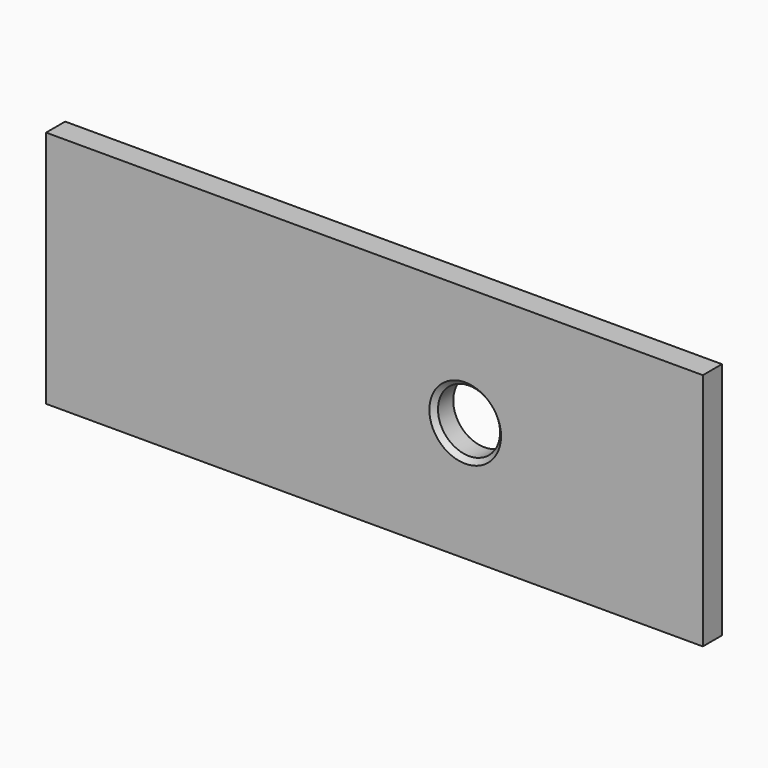
from build123d import *

# Parameters (mm, degrees)
F0_W     = 275
F0_H     = 100
F0_R     = 13
F1_DEPTH = 10
F2_SIZE  = 2


with BuildPart() as f1:
    # F0 (on Front) → F1 (new body)
    with BuildSketch(Plane.XZ):
        Rectangle(F0_W, F0_H)
        with Locations((38, 0)):
            Circle(F0_R, mode=Mode.SUBTRACT)
    extrude(amount=F1_DEPTH)

    # F2
    f2_edges = [f1.edges().sort_by_distance(p)[0] for p in [
        (25, -10, 0),
    ]]
    chamfer(f2_edges, length=F2_SIZE)


solid = f1.part
